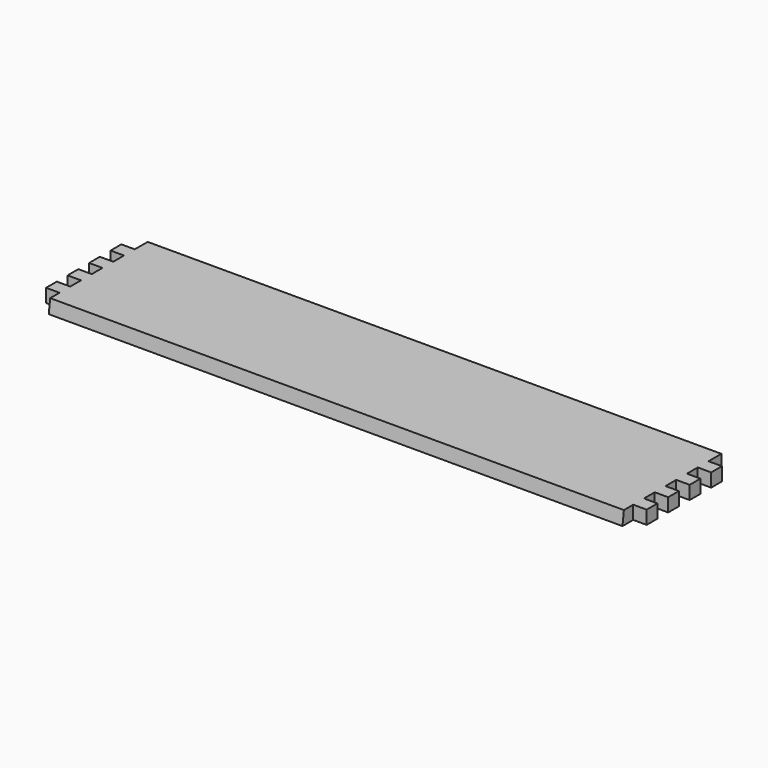
from build123d import *

# Parameters (mm, degrees)
F0_W     = 10
F0_H     = 10
F0_W_2   = 427
F0_H_2   = 2
F1_DEPTH = 10
F3_DEPTH = 427


with BuildPart() as f1:
    # F0 (on Top) → F1 (new body)
    with BuildSketch(Plane.XY):
        Polygon((291.3653250098, 56.9413525529), (-135.6346749902, 56.9413525529), (-135.6346749902, 46.9413525529), (-135.6346749902, 36.9413525529), (-135.6346749902, 26.9413525529), (-135.6346749902, 16.9413525529), (-135.6346749902, 6.9413525529), (-135.6346749902, -3.0586474471), (-135.6346749902, -13.0586474471), (-135.6346749902, -23.0586474471), (-135.6346749902, -33.0586474471), (291.3653250098, -33.0586474471), (291.3653250098, -23.0586474471), (291.3653250098, -13.0586474471), (291.3653250098, -3.0586474471), (291.3653250098, 6.9413525529), (291.3653250098, 16.9413525529), (291.3653250098, 26.9413525529), (291.3653250098, 36.9413525529), (291.3653250098, 46.9413525529), align=None)
        with Locations((-140.6346749902, 41.9413525529)):
            Rectangle(F0_W, F0_H)
        with Locations((-140.6346749902, 21.9413525529)):
            Rectangle(F0_W, F0_H)
        with Locations((-140.6346749902, 1.9413525529)):
            Rectangle(F0_W, F0_H)
        with Locations((-140.6346749902, -18.0586474471)):
            Rectangle(F0_W, F0_H)
        with Locations((296.3653250098, 41.9413525529)):
            Rectangle(F0_W, F0_H)
        with Locations((296.3653250098, 21.9413525529)):
            Rectangle(F0_W, F0_H)
        with Locations((296.3653250098, 1.9413525529)):
            Rectangle(F0_W, F0_H)
        with Locations((296.3653250098, -18.0586474471)):
            Rectangle(F0_W, F0_H)
        with Locations((77.8653250098, 57.9413525529)):
            Rectangle(F0_W_2, F0_H_2)
    extrude(amount=F1_DEPTH)

    # F2 (on face) → F3 (cut)
    with BuildSketch(Plane.YZ.offset(291.3653250098)):
        Polygon((-33.0586474471, 10), (-33.0586474471, 0), (-31.7548674471, 10), align=None)
        Polygon((-31.7548674471, 19.557), (-31.7548674471, 10), (58.9411325529, 10), align=None)
    extrude(amount=-F3_DEPTH, mode=Mode.SUBTRACT)


solid = f1.part
